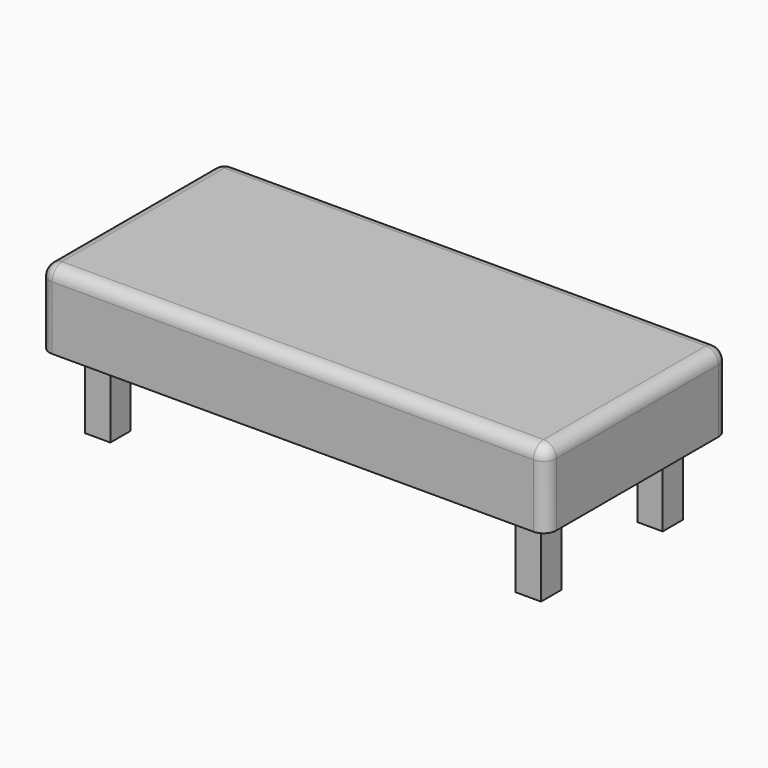
from build123d import *

# Parameters (mm, degrees)
F0_W     = 2000
F0_H     = 900
F1_DEPTH = 300
F2_R     = 50
F3_W     = 100
F3_H     = 100
F4_DEPTH = 300


with BuildPart() as f1:
    # F0 (on Top) → F1 (new body)
    with BuildSketch(Plane.XY):
        Rectangle(F0_W, F0_H)
    extrude(amount=F1_DEPTH)

    # F2
    f2_edges = [f1.edges().sort_by_distance(p)[0] for p in [
        (1000, 0, 300),
        (0, 450, 300),
        (-1000, 0, 300),
        (0, -450, 300),
        (-1000, -450, 150),
        (1000, -450, 150),
        (1000, 450, 150),
        (-1000, 450, 150),
    ]]
    fillet(f2_edges, radius=F2_R)

    # F3 (on face) → F4 (join)
    with BuildSketch(Plane(origin=(0, 0, 0), x_dir=(1, 0, 0), z_dir=(0, 0, -1))):
        with Locations((-850, 300)):
            Rectangle(F3_W, F3_H)
        with Locations((850, 300)):
            Rectangle(F3_W, F3_H)
        with Locations((-850, -300)):
            Rectangle(F3_W, F3_H)
        with Locations((850, -300)):
            Rectangle(F3_W, F3_H)
    extrude(amount=F4_DEPTH)


solid = f1.part
